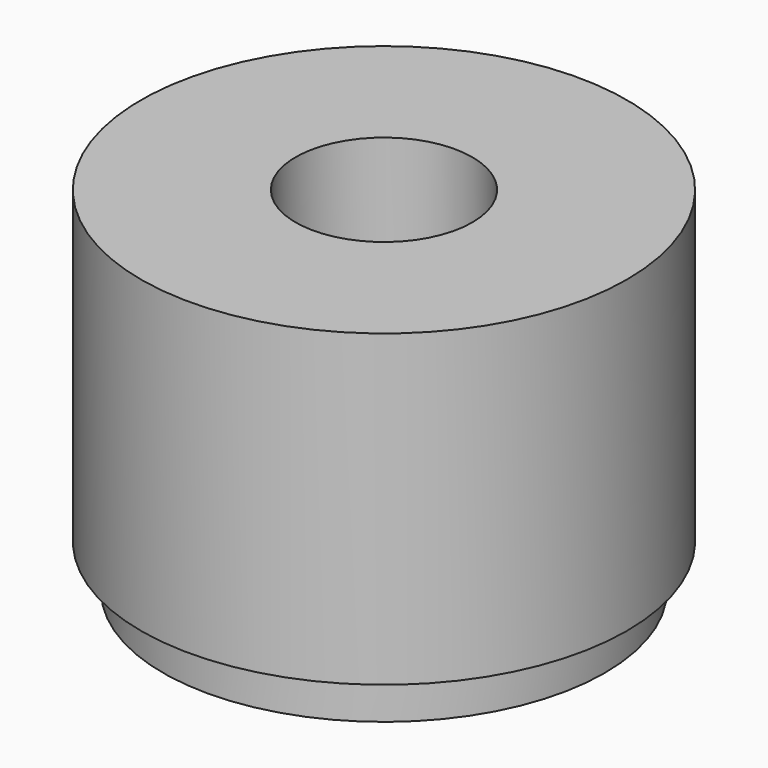
from build123d import *

# Parameters (mm, degrees)
F1_R     = 5.5
F2_DEPTH = 8
F3_R     = 4
F4_DEPTH = 4
F5_R     = 1
F6_DEPTH = 25
F5_R_2   = 2
F7_DEPTH = 5
F8_R     = 5.5
F8_R_2   = 5
F9_DEPTH = 1


with BuildPart() as f2:
    # F1 (on offset) → F2 (new body)
    with BuildSketch(Plane.XY.offset(4)):
        Circle(F1_R)
    extrude(amount=F2_DEPTH)

    # F3 (on face) → F4 (cut)
    with BuildSketch(Plane(origin=(0, 0, 4), x_dir=(1, 0, 0), z_dir=(0, 0, -1))):
        Circle(F3_R)
    extrude(amount=-F4_DEPTH, mode=Mode.SUBTRACT)

    # F5 (on face) → F6 (cut)
    with BuildSketch(Plane.XY.offset(12)):
        Circle(F5_R)
    extrude(amount=-F6_DEPTH, mode=Mode.SUBTRACT)

    # F5 (on face) → F7 (cut)
    with BuildSketch(Plane.XY.offset(12)):
        Circle(F5_R_2)
        Circle(F5_R, mode=Mode.SUBTRACT)
    extrude(amount=-F7_DEPTH, mode=Mode.SUBTRACT)

    # F8 (on face) → F9 (cut)
    with BuildSketch(Plane(origin=(0, 0, 4), x_dir=(1, 0, 0), z_dir=(0, 0, -1))):
        Circle(F8_R)
        Circle(F8_R_2, mode=Mode.SUBTRACT)
    extrude(amount=-F9_DEPTH, mode=Mode.SUBTRACT)


solid = f2.part
